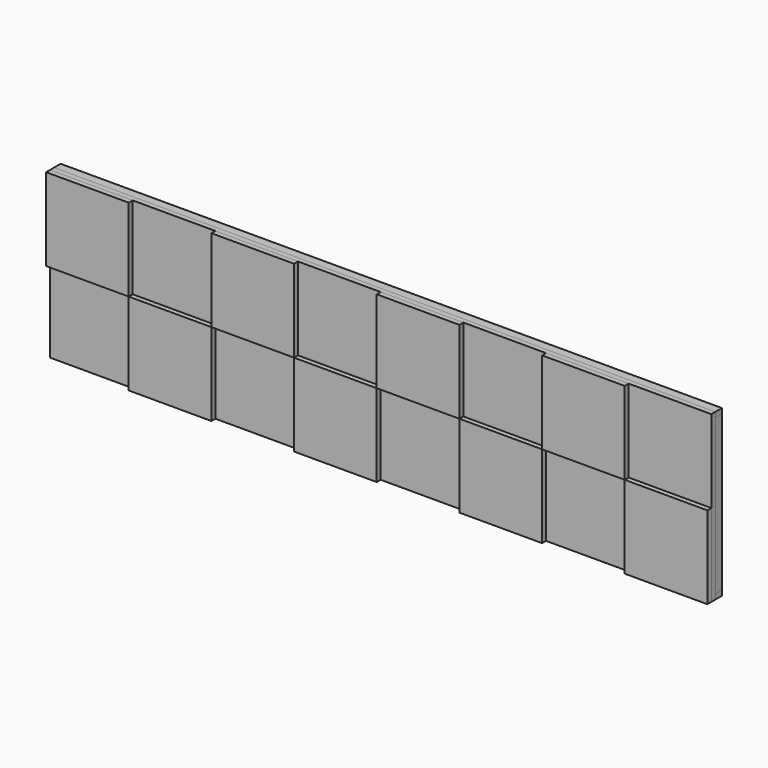
from build123d import *

# Parameters (mm, degrees)
F0_W      = 18
F0_H      = 564
F1_DEPTH  = 30
F2_DEPTH  = 30
F3_DEPTH  = 30
F4_DEPTH  = 30
F5_W      = 2400
F5_H      = 600
F6_DEPTH  = 18
F7_W      = 300
F7_H      = 300
F8_DEPTH  = 18
F9_W      = 50
F9_H      = 564
F10_DEPTH = 15
F11_W     = 160
F11_H     = 100
F12_DEPTH = 15


with BuildPart() as f1:
    # F0 (on Front) → F1 (new body)
    with BuildSketch(Plane.XZ):
        with Locations((1521.161786, -291.767616)):
            Rectangle(F0_W, F0_H)
    extrude(amount=F1_DEPTH)


with BuildPart() as f2:
    # F0 (on Front) → F2 (new body)
    with BuildSketch(Plane.XZ):
        Polygon((1530.161786, 8.232384), (-869.838214, 8.232384), (-869.838214, -9.767616), (-851.838214, -9.767616), (1512.161786, -9.767616), (1530.161786, -9.767616), align=None)
    extrude(amount=F2_DEPTH)


with BuildPart() as f3:
    # F0 (on Front) → F3 (new body)
    with BuildSketch(Plane.XZ):
        with Locations((-860.838214, -291.767616)):
            Rectangle(F0_W, F0_H)
    extrude(amount=F3_DEPTH)


with BuildPart() as f4:
    # F0 (on Front) → F4 (new body)
    with BuildSketch(Plane.XZ):
        Polygon((-851.838214, -573.767616), (-869.838214, -573.767616), (-869.838214, -591.767616), (-50, -591.767616), (50, -591.767616), (1530.161786, -591.767616), (1530.161786, -573.767616), (1512.161786, -573.767616), (50, -573.767616), (-50, -573.767616), align=None)
        Polygon((-851.838214, -573.767616), (-869.838214, -573.767616), (-869.838214, -591.767616), (-50, -591.767616), (50, -591.767616), (1530.161786, -591.767616), (1530.161786, -573.767616), (1512.161786, -573.767616), (50, -573.767616), (-50, -573.767616), align=None)
    extrude(amount=F4_DEPTH)


with BuildPart() as f6:
    # F5 (on face) → F6 (new body)
    with BuildSketch(Plane.XZ.offset(30)):
        with Locations((330.161786, -291.767616)):
            Rectangle(F5_W, F5_H)
    extrude(amount=F6_DEPTH)


with BuildPart() as f8:
    # F7 (on face) → F8 (new body)
    with BuildSketch(Plane.XZ.offset(48)):
        with Locations((1380.161786, -441.767616)):
            Rectangle(F7_W, F7_H)
        with Locations((1080.161786, -141.767616)):
            Rectangle(F7_W, F7_H)
        with Locations((780.161786, -441.767616)):
            Rectangle(F7_W, F7_H)
        with Locations((480.161786, -141.767616)):
            Rectangle(F7_W, F7_H)
        with Locations((180.161786, -441.767616)):
            Rectangle(F7_W, F7_H)
        with Locations((-119.838214, -141.767616)):
            Rectangle(F7_W, F7_H)
        with Locations((-419.838214, -441.767616)):
            Rectangle(F7_W, F7_H)
        with Locations((-719.838214, -141.767616)):
            Rectangle(F7_W, F7_H)
    extrude(amount=F8_DEPTH)


with BuildPart() as f10:
    # F9 (on face) → F10 (new body)
    with BuildSketch(Plane.XZ.offset(30)):
        with Locations((1487.161786, -291.767616)):
            Rectangle(F9_W, F9_H)
        with Locations((-826.838214, -291.767616)):
            Rectangle(F9_W, F9_H)
        with Locations((1377.161786, -291.767616)):
            Rectangle(F9_W, F9_H)
        with Locations((-716.838214, -291.767616)):
            Rectangle(F9_W, F9_H)
    extrude(amount=-F10_DEPTH)


with BuildPart() as f12:
    # F11 (on face) → F12 (new body)
    with BuildSketch(Plane(origin=(0, -15, 0), x_dir=(-1, 0, 0), z_dir=(0, 1, 0))):
        with Locations((-1432.161786, -109.767616)):
            Rectangle(F11_W, F11_H)
        with Locations((771.838214, -109.767616)):
            Rectangle(F11_W, F11_H)
        with Locations((-1432.161786, -473.767616)):
            Rectangle(F11_W, F11_H)
        with Locations((771.838214, -473.767616)):
            Rectangle(F11_W, F11_H)
    extrude(amount=F12_DEPTH)


solid = Compound([f1.part, f2.part, f3.part, f4.part, f6.part, f8.part, f10.part, f12.part])
